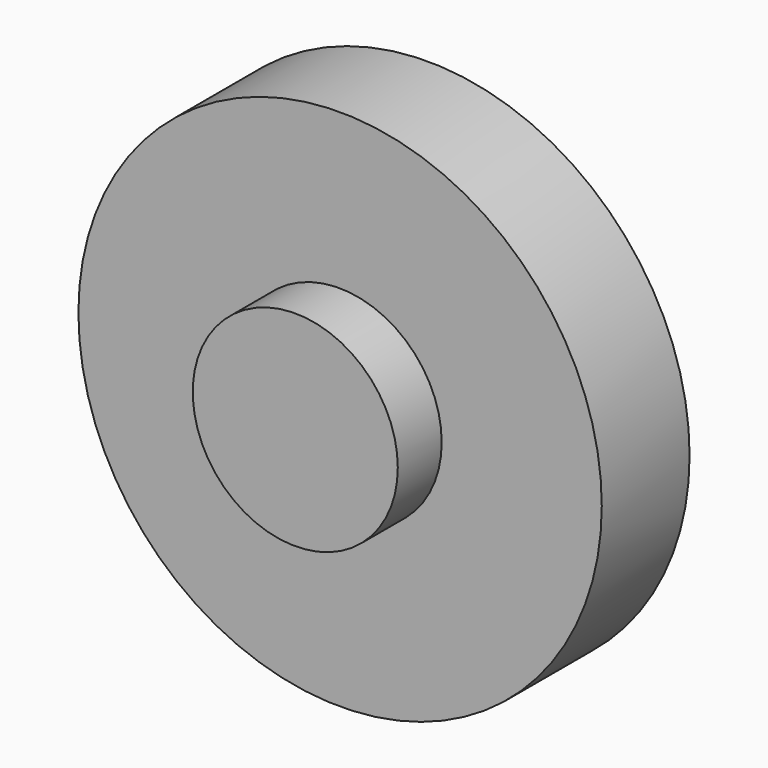
from build123d import *

# Parameters (mm, degrees)
F0_R     = 60.555812
F1_DEPTH = 25.4
F2_R     = 23.724839
F3_DEPTH = 38.1


with BuildPart() as f1:
    # F0 (on Front) → F1 (new body)
    with BuildSketch(Plane.XZ):
        Circle(F0_R)
    extrude(amount=F1_DEPTH)

    # F2 (on Front) → F3 (join)
    with BuildSketch(Plane.XZ):
        with Locations((-0.211569, 0.930349)):
            Circle(F2_R)
    extrude(amount=F3_DEPTH)


solid = f1.part
